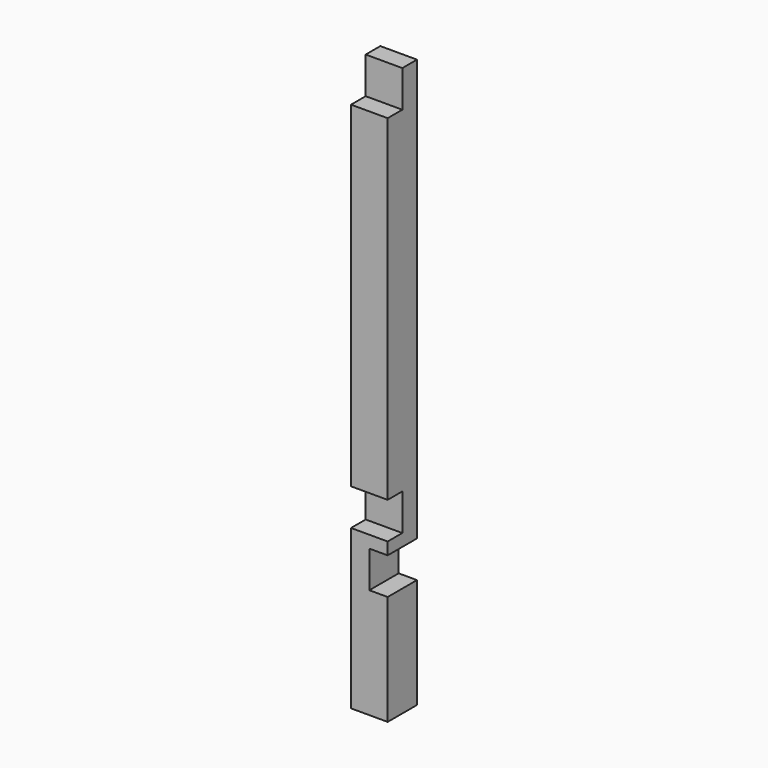
from build123d import *

# Parameters (mm, degrees)
F0_W     = 38.1
F0_H     = 38.1
F1_DEPTH = 590.55
F2_W     = 38.1
F2_H     = 38.1
F3_DEPTH = 19.05
F4_W     = 38.1
F4_H     = 38.1
F5_DEPTH = 19.05
F6_W     = 38.1
F6_H     = 38.1
F7_DEPTH = 19.05


with BuildPart() as f1:
    # F0 (on Top) → F1 (new body)
    with BuildSketch(Plane.XY):
        with Locations((-34.016462, 22.66462)):
            Rectangle(F0_W, F0_H)
    extrude(amount=F1_DEPTH)

    # F2 (on face) → F3 (cut)
    with BuildSketch(Plane.XZ.offset(-3.61462)):
        with Locations((-34.016462, 571.5)):
            Rectangle(F2_W, F2_H)
    extrude(amount=-F3_DEPTH, mode=Mode.SUBTRACT)

    # F4 (on face) → F5 (cut)
    with BuildSketch(Plane.YZ.offset(-14.966462)):
        with Locations((22.66462, 133.35)):
            Rectangle(F4_W, F4_H)
    extrude(amount=-F5_DEPTH, mode=Mode.SUBTRACT)

    # F6 (on face) → F7 (cut)
    with BuildSketch(Plane.XZ.offset(-3.61462)):
        with Locations((-34.016462, 184.15)):
            Rectangle(F6_W, F6_H)
    extrude(amount=-F7_DEPTH, mode=Mode.SUBTRACT)


solid = f1.part
